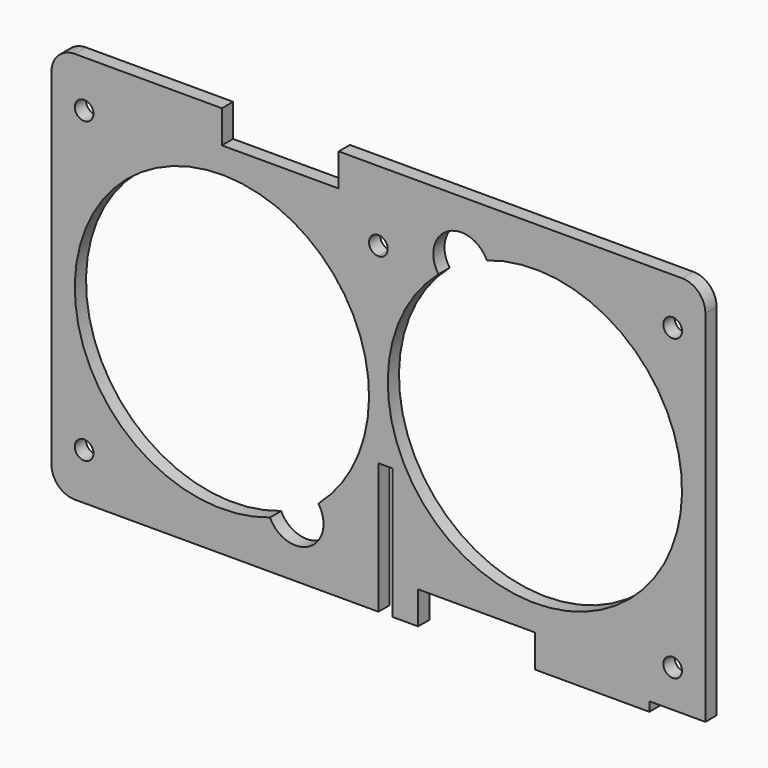
from build123d import *

# Parameters (mm, degrees)
F0_R     = 2
F1_DEPTH = 3


with BuildPart() as f1:
    # F0 (on Front) → F1 (new body)
    with BuildSketch(Plane.XZ):
        with BuildLine():
            ThreePointArc((-70, -37), (-68.535534, -40.535534), (-65, -42))
            Line((-65, -42), (0, -42))
            Line((0, -42), (0, -14))
            Line((0, -14), (0, 25))
            ThreePointArc((0, 25), (-2, 27), (0, 29))
            Line((0, 29), (0, 42))
            Line((0, 42), (-8.5, 42))
            Line((-8.5, 42), (-8.5, 35))
            Line((-8.5, 35), (-33.5, 35))
            Line((-33.5, 35), (-33.5, 42))
            Line((-33.5, 42), (-65, 42))
            ThreePointArc((-65, 42), (-68.535534, 40.535534), (-70, 37))
            Line((-70, 37), (-70, -37))
        make_face()
        with Locations((-63, -32)):
            Circle(F0_R, mode=Mode.SUBTRACT)
        with BuildLine():
            ThreePointArc((-23.208248, -31.771292), (-49.25, 25.2798), (-12.863181, -25.798565))
            ThreePointArc((-12.863181, -25.798565), (-14.75, -34.475953), (-23.208248, -31.771292))
        make_face(mode=Mode.SUBTRACT)
        with Locations((-63, 32)):
            Circle(F0_R, mode=Mode.SUBTRACT)
        with BuildLine():
            Line((0, 25), (0, -14))
            Line((0, -14), (3, -14))
            Line((3, -14), (3, -42))
            Line((3, -42), (8.5, -42))
            Line((8.5, -42), (8.5, -35))
            Line((8.5, -35), (33.5, -35))
            Line((33.5, -35), (33.5, -42))
            Line((33.5, -42), (58, -42))
            Line((58, -42), (58, -40))
            Line((58, -40), (70, -40))
            Line((70, -40), (70, 37))
            ThreePointArc((70, 37), (68.535534, 40.535534), (65, 42))
            Line((65, 42), (0, 42))
            Line((0, 42), (0, 29))
            ThreePointArc((0, 29), (1.414214, 28.414214), (2, 27))
            ThreePointArc((2, 27), (1.414214, 25.585786), (0, 25))
        make_face()
        with Locations((63, -32)):
            Circle(F0_R, mode=Mode.SUBTRACT)
        with BuildLine():
            ThreePointArc((23.208248, 31.771292), (49.25, -25.2798), (12.863181, 25.798565))
            ThreePointArc((12.863181, 25.798565), (14.75, 34.475953), (23.208248, 31.771292))
        make_face(mode=Mode.SUBTRACT)
        with Locations((63, 32)):
            Circle(F0_R, mode=Mode.SUBTRACT)
    extrude(amount=F1_DEPTH)


solid = f1.part
